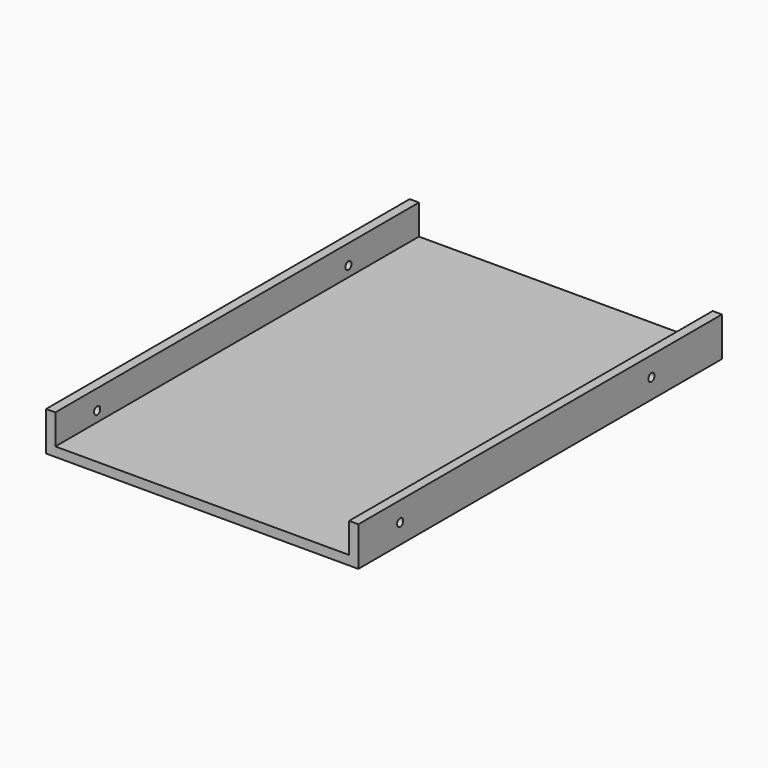
from build123d import *

# Parameters (mm, degrees)
F1_W     = 3
F1_H     = 147
F1_W_2   = 95
F2_DEPTH = 3
F3_DEPTH = 12.7
F4_R     = 1.25
F5_DEPTH = 101.001


with BuildPart() as f2:
    # F1 (on Top) → F2 (new body)
    with BuildSketch(Plane.XY):
        with Locations((-49, 0)):
            Rectangle(F1_W, F1_H)
        Rectangle(F1_W_2, F1_H)
        with Locations((49, 0)):
            Rectangle(F1_W, F1_H)
    extrude(amount=F2_DEPTH)

    # F1 (on Top) → F3 (join)
    with BuildSketch(Plane.XY):
        with Locations((-49, 0)):
            Rectangle(F1_W, F1_H)
        with Locations((49, 0)):
            Rectangle(F1_W, F1_H)
    extrude(amount=F3_DEPTH)

    # F4 (on face) → F5 (cut, through all)
    with BuildSketch(Plane(origin=(-50.5, 0, 0), x_dir=(0, -1, 0), z_dir=(-1, 0, 0))):
        with Locations((-45, 6.35)):
            Circle(F4_R)
        with Locations((56.6, 6.35)):
            Circle(F4_R)
    extrude(amount=-F5_DEPTH, mode=Mode.SUBTRACT)


solid = f2.part
